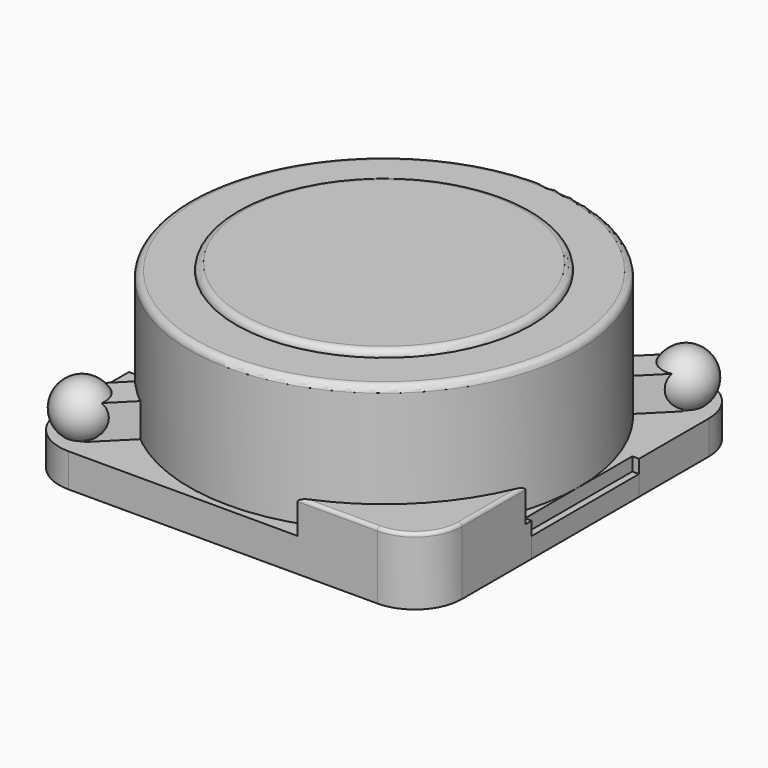
from build123d import *

# Parameters (mm, degrees)
BOX003_W               = 7
BOX003_H               = 0.5
BOX003_DEPTH           = 0.5
BOX003_PLACEMENT_ANGLE = 45
BOX005_W               = 0.9
BOX005_H               = 2
BOX005_DEPTH           = 0.3
BOX007_W               = 0.9
BOX007_H               = 2
BOX007_DEPTH           = 0.3
CYLINDER_R             = 2.9
CYLINDER_DEPTH         = 2.4
FILLET_R               = 0.1
CYLINDER001_R          = 2.2
CYLINDER001_DEPTH      = 2.5
FILLET001_R            = 0.1
BOX004_W               = 0.2
BOX004_H               = 2
BOX004_DEPTH           = 1
BOX006_W               = 0.2
BOX006_H               = 2
BOX006_DEPTH           = 1
BOX002_W               = 10
BOX002_H               = 4
BOX002_DEPTH           = 2
BOX002_PLACEMENT_ANGLE = 45
BOX001_W               = 10
BOX001_H               = 10
BOX001_DEPTH           = 10
BOX001_PLACEMENT_ANGLE = 45
CYLINDER003_R          = 3.4
CYLINDER003_DEPTH      = 2.4
BOX_W                  = 10
BOX_H                  = 10
BOX_DEPTH              = 10
BOX_PLACEMENT_ANGLE    = 45
CYLINDER002_R          = 3.2
CYLINDER002_DEPTH      = 2.4
PAD_DEPTH              = 1
FILLET002_R            = 0.05
FILLET003_R            = 0.05


with BuildPart() as obj1:
    # Sphere → Sphere (revolve)
    with BuildSketch(Plane(origin=(2.5, 2.5, 0.8), x_dir=(1, 0, 0), z_dir=(0, -1, 0))):
        with BuildLine():
            ThreePointArc((0, -0.4), (0.4, 0), (0, 0.4))
            Line((0, 0.4), (0, -0.4))
        make_face()
    revolve(axis=Axis((2.5, 2.5, 0.8), (0, 0, 1)))


with BuildPart() as obj2:
    # Sphere001 → Sphere001 (revolve)
    with BuildSketch(Plane(origin=(-2.5, -2.5, 0.8), x_dir=(1, 0, 0), z_dir=(0, -1, 0))):
        with BuildLine():
            ThreePointArc((0, -0.4), (0.4, 0), (0, 0.4))
            Line((0, 0.4), (0, -0.4))
        make_face()
    revolve(axis=Axis((-2.5, -2.5, 0.8), (0, 0, 1)))


with BuildPart() as kub003:
    # Box003 → Box003 (new body)
    with BuildSketch(Plane.XY):
        with Locations((3.5, 0.25)):
            Rectangle(BOX003_W, BOX003_H)
    extrude(amount=BOX003_DEPTH)


with BuildPart() as kub003_1:
    # Box003 placement: moved
    add(kub003.part.moved(Location((-2.3, -2.7, 0.5))).rotate(Axis((-2.3, -2.7, 0.5), (0, 0, 1)), BOX003_PLACEMENT_ANGLE))


with BuildPart() as kub005:
    # Box005 → Box005 (new body)
    with BuildSketch(Plane(origin=(2.1, -1, 0), x_dir=(1, 0, 0), z_dir=(0, 0, 1))):
        with Locations((0.45, 1)):
            Rectangle(BOX005_W, BOX005_H)
    extrude(amount=BOX005_DEPTH)


with BuildPart() as kub007:
    # Box007 → Box007 (new body)
    with BuildSketch(Plane(origin=(-3, -1, 0), x_dir=(1, 0, 0), z_dir=(0, 0, 1))):
        with Locations((0.45, 1)):
            Rectangle(BOX007_W, BOX007_H)
    extrude(amount=BOX007_DEPTH)


with BuildPart() as fillet_body:
    # Cylinder → Cylinder (new body)
    with BuildSketch(Plane.XY):
        Circle(CYLINDER_R)
    extrude(amount=CYLINDER_DEPTH)

    # Fillet
    fillet_edges = [fillet_body.edges().sort_by_distance(p)[0] for p in [
        (-2.9, 0, 2.4),
    ]]
    fillet(fillet_edges, radius=FILLET_R)


with BuildPart() as fillet001:
    # Cylinder001 → Cylinder001 (new body)
    with BuildSketch(Plane.XY):
        Circle(CYLINDER001_R)
    extrude(amount=CYLINDER001_DEPTH)

    # Fillet001
    fillet001_edges = [fillet001.edges().sort_by_distance(p)[0] for p in [
        (-2.2, 0, 2.5),
    ]]
    fillet(fillet001_edges, radius=FILLET001_R)


with BuildPart() as kub004:
    # Box004 → Box004 (new body)
    with BuildSketch(Plane(origin=(2.9, -1, 0), x_dir=(1, 0, 0), z_dir=(0, 0, 1))):
        with Locations((0.1, 1)):
            Rectangle(BOX004_W, BOX004_H)
    extrude(amount=BOX004_DEPTH)


with BuildPart() as kub006:
    # Box006 → Box006 (new body)
    with BuildSketch(Plane(origin=(-3.1, -1, 0), x_dir=(1, 0, 0), z_dir=(0, 0, 1))):
        with Locations((0.1, 1)):
            Rectangle(BOX006_W, BOX006_H)
    extrude(amount=BOX006_DEPTH)


with BuildPart() as kub002:
    # Box002 → Box002 (new body)
    with BuildSketch(Plane.XY):
        with Locations((5, 2)):
            Rectangle(BOX002_W, BOX002_H)
    extrude(amount=BOX002_DEPTH)


with BuildPart() as kub002_1:
    # Box002 placement: moved
    add(kub002.part.moved(Location((-2, -5, 0.5))).rotate(Axis((-2, -5, 0.5), (0, 0, 1)), BOX002_PLACEMENT_ANGLE))


with BuildPart() as kub001:
    # Box001 → Box001 (new body)
    with BuildSketch(Plane.XY):
        with Locations((5, 5)):
            Rectangle(BOX001_W, BOX001_H)
    extrude(amount=BOX001_DEPTH)


with BuildPart() as kub001_1:
    # Box001 placement: moved
    add(kub001.part.moved(Location((1, -10, 0))).rotate(Axis((1, -10, 0), (0, 0, 1)), BOX001_PLACEMENT_ANGLE))


with BuildPart() as cut001:
    # Cylinder003 → Cylinder003 (new body)
    with BuildSketch(Plane.XY.offset(0.5)):
        Circle(CYLINDER003_R)
    extrude(amount=CYLINDER003_DEPTH)

    # Cut001: cut Kub001
    add(kub001_1.part, mode=Mode.SUBTRACT)


with BuildPart() as cut001_1:
    # Cut001 placement: moved
    add(cut001.part.moved(Location((0.3, -0.3, 0))))


with BuildPart() as kub:
    # Box → Box (new body)
    with BuildSketch(Plane.XY):
        with Locations((5, 5)):
            Rectangle(BOX_W, BOX_H)
    extrude(amount=BOX_DEPTH)


with BuildPart() as kub_1:
    # Box placement: moved
    add(kub.part.moved(Location((-5, -2, 0))).rotate(Axis((-5, -2, 0), (0, 0, 1)), BOX_PLACEMENT_ANGLE))


with BuildPart() as cut:
    # Cylinder002 → Cylinder002 (new body)
    with BuildSketch(Plane.XY.offset(0.5)):
        Circle(CYLINDER002_R)
    extrude(amount=CYLINDER002_DEPTH)

    # Cut: cut Kub
    add(kub_1.part, mode=Mode.SUBTRACT)


with BuildPart() as fillet003:
    # Sketch → Pad (new body)
    with BuildSketch(Plane.XY):
        with BuildLine():
            Line((-3, -2.3), (-3, 2.1))
            Line((-3, 2.1), (-2.1, 2.1))
            Line((-2.1, 2.1), (-2.1, 3))
            Line((-2.1, 3), (2.3, 3))
            ThreePointArc((3, 2.3), (2.794975, 2.794975), (2.3, 3))
            Line((3, -2.3), (3, 2.3))
            ThreePointArc((2.3, -3), (2.794975, -2.794975), (3, -2.3))
            Line((-2.3, -3), (2.3, -3))
            ThreePointArc((-3, -2.3), (-2.794975, -2.794975), (-2.3, -3))
        make_face()
    extrude(amount=PAD_DEPTH)

    # Cut002: cut Cut
    add(cut.part, mode=Mode.SUBTRACT)

    # Cut003: cut Cut001
    add(cut001_1.part, mode=Mode.SUBTRACT)

    # Cut004: cut Kub002
    add(kub002_1.part, mode=Mode.SUBTRACT)

    # Cut005: cut Kub006
    add(kub006.part, mode=Mode.SUBTRACT)

    # Cut006: cut Kub004
    add(kub004.part, mode=Mode.SUBTRACT)

    # Fillet002
    fillet002_edges = [fillet003.edges().sort_by_distance(p)[0] for p in [
        (1.706776, -3, 1),
        (2.794975, -2.794975, 1),
        (3, -1.706776, 1),
    ]]
    fillet(fillet002_edges, radius=FILLET002_R)

    # Fillet003
    fillet003_edges = [fillet003.edges().sort_by_distance(p)[0] for p in [
        (-1.309268, 3, 1),
        (-2.1, 2.554159, 1),
        (-2.554159, 2.1, 1),
        (-3, 1.55, 1),
    ]]
    fillet(fillet003_edges, radius=FILLET003_R)


solid = Compound([obj1.part, obj2.part, kub003_1.part, kub005.part, kub007.part, fillet_body.part, fillet001.part, fillet003.part])
